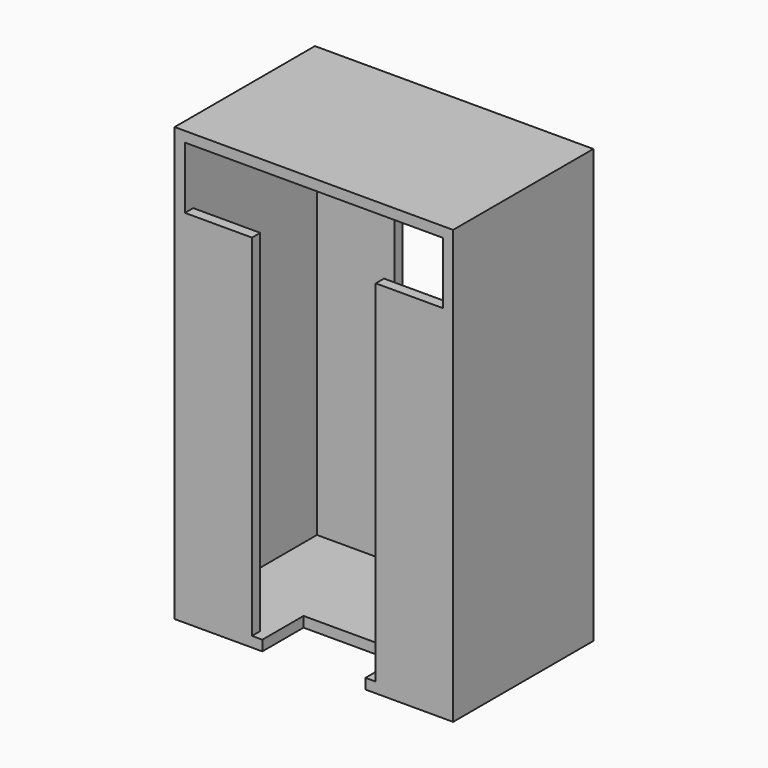
from build123d import *

# Parameters (mm, degrees)
F0_W      = 54
F0_H      = 84
F1_DEPTH  = 34
F2_T      = -2
F3_W      = 20
F3_H      = 60
F4_DEPTH  = 25
F5_W      = 15
F5_H      = 70
F6_DEPTH  = 2
F7_W      = 15
F7_H      = 70
F8_DEPTH  = 2
F9_W      = 10
F9_H      = 2
F10_DEPTH = 10


with BuildPart() as f1:
    # F0 (on Front) → F1 (new body)
    with BuildSketch(Plane.XZ):
        Rectangle(F0_W, F0_H)
    extrude(amount=F1_DEPTH)

    # F2
    f2_openings = [f1.faces().sort_by_distance(p)[0] for p in [
        (0, -34, 0),
    ]]
    offset(amount=F2_T, openings=f2_openings)

    # F3 (on face) → F4 (cut)
    with BuildSketch(Plane.XZ.offset(2)):
        Rectangle(F3_W, F3_H)
    extrude(amount=-F4_DEPTH, mode=Mode.SUBTRACT)

    # F5 (on face) → F6 (join)
    with BuildSketch(Plane.XZ.offset(34)):
        with Locations((-19.5, -7)):
            Rectangle(F5_W, F5_H)
    extrude(amount=-F6_DEPTH)

    # F7 (on face) → F8 (join)
    with BuildSketch(Plane.XZ.offset(34)):
        with Locations((19.5, -7)):
            Rectangle(F7_W, F7_H)
    extrude(amount=-F8_DEPTH)

    # F9 (on face) → F10 (cut)
    with BuildSketch(Plane.XZ.offset(34)):
        with Locations((-5, -41)):
            Rectangle(F9_W, F9_H)
        with Locations((5, -41)):
            Rectangle(F9_W, F9_H)
    extrude(amount=-F10_DEPTH, mode=Mode.SUBTRACT)


solid = f1.part
